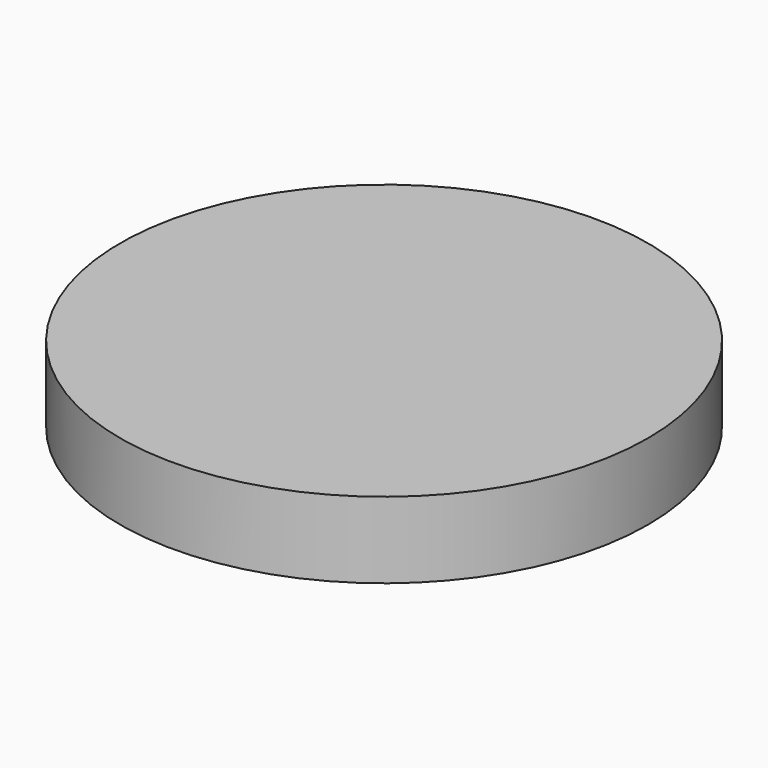
from build123d import *

# Parameters (mm, degrees)
F0_R     = 26.401752
F1_DEPTH = 7.62
F2_R     = 24.203463
F3_DEPTH = 4.2


with BuildPart() as f1:
    # F0 (on Top) → F1 (new body)
    with BuildSketch(Plane.XY):
        Circle(F0_R)
    extrude(amount=-F1_DEPTH)

    # F2 (on face) → F3 (cut)
    with BuildSketch(Plane(origin=(0, 0, -7.62), x_dir=(1, 0, 0), z_dir=(0, 0, -1))):
        Circle(F2_R)
    extrude(amount=-F3_DEPTH, mode=Mode.SUBTRACT)


solid = f1.part
